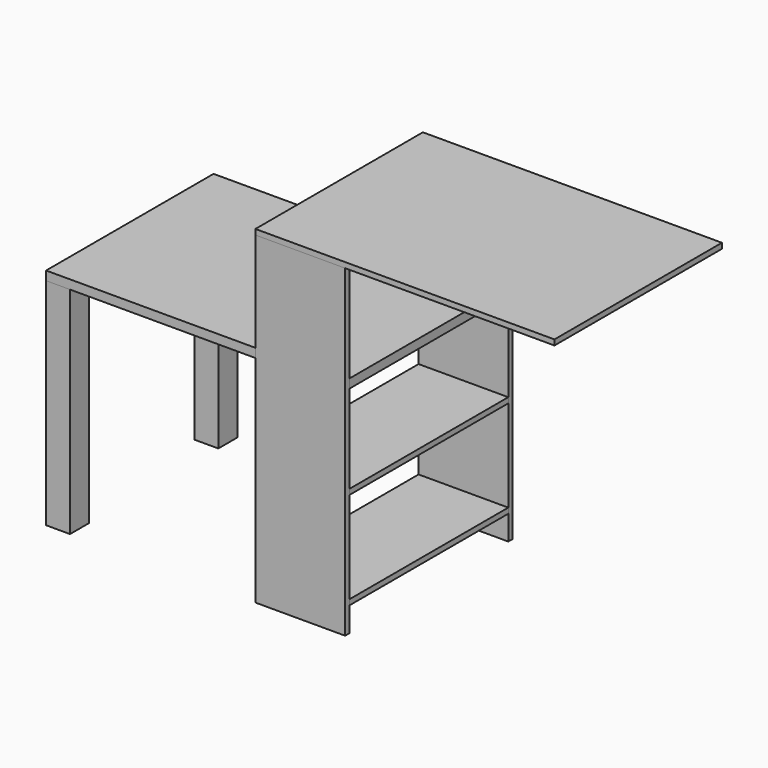
from build123d import *

# Parameters (mm, degrees)
F0_W      = 300
F0_H      = 18
F1_DEPTH  = 1082
F3_W      = 700
F3_H      = 18
F4_DEPTH  = 1000
F7_DEPTH  = 30
F8_W      = 664
F8_H      = 18
F9_DEPTH  = 300
F10_W     = 80
F10_H     = 80
F11_DEPTH = 720


with BuildPart() as f1:
    # F0 (on Top) → F1 (new body)
    with BuildSketch(Plane.XY):
        with Locations((-150, 341)):
            Rectangle(F0_W, F0_H)
    extrude(amount=F1_DEPTH)


with BuildPart() as f2_1:
    # F2: instance of F1
    add(f1.part.mirror(Plane.XZ))


with BuildPart() as f4:
    # F3 (on face) → F4 (new body)
    with BuildSketch(Plane(origin=(-300, 0, 0), x_dir=(0, -1, 0), z_dir=(-1, 0, 0))):
        with Locations((0, 1091)):
            Rectangle(F3_W, F3_H)
    extrude(amount=-F4_DEPTH)


with BuildPart() as f7:
    # F6 (on offset) → F7 (new body)
    with BuildSketch(Plane.XY.offset(750)):
        Polygon((0, -332), (0, 332), (-300, 332), (-300, 350), (-1000, 350), (-1000, -350), (-300, -350), (-300, -332), align=None)
    extrude(amount=-F7_DEPTH)


with BuildPart() as f9:
    # F8 (on face) → F9 (new body, through all)
    with BuildSketch(Plane.YZ):
        with Locations((0, 91)):
            Rectangle(F8_W, F8_H)
        with Locations((0, 416)):
            Rectangle(F8_W, F8_H)
    extrude(amount=-F9_DEPTH)


with BuildPart() as f11:
    # F10 (on face) → F11 (new body, through all)
    with BuildSketch(Plane(origin=(0, 0, 720), x_dir=(1, 0, 0), z_dir=(0, 0, -1))):
        with Locations((-960, -310)):
            Rectangle(F10_W, F10_H)
    extrude(amount=F11_DEPTH)


with BuildPart() as f12_1:
    # F12: instance of F11
    add(f11.part.mirror(Plane.XZ))


solid = Compound([f1.part, f2_1.part, f4.part, f7.part, f9.part, f11.part, f12_1.part])
